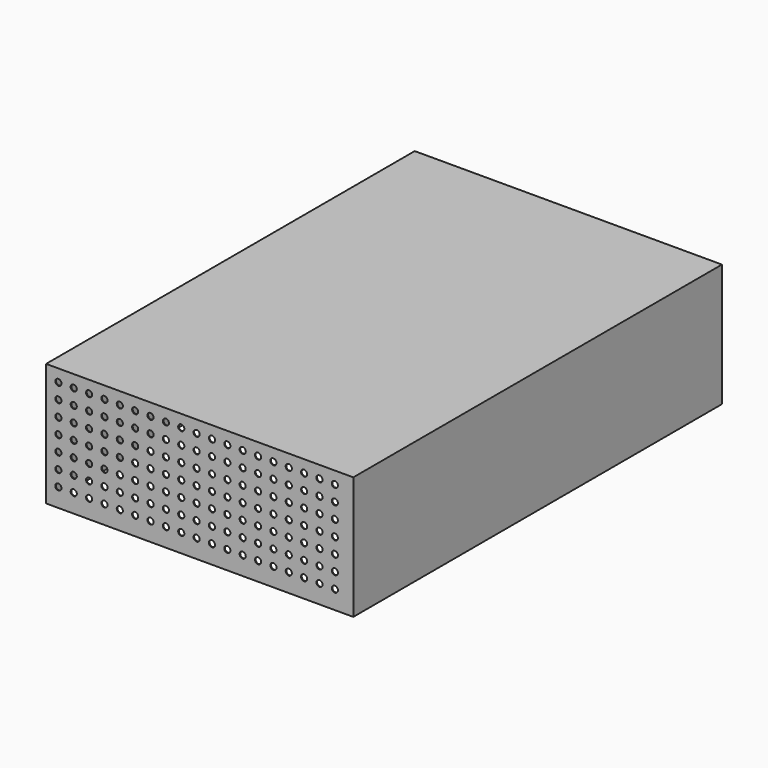
from build123d import *

# Parameters (mm, degrees)
F0_W     = 1000
F0_H     = 1500
F1_DEPTH = 400
F2_T     = -2.5
F3_R     = 10
F4_DEPTH = 2000


with BuildPart() as f1:
    # F0 (on Top) → F1 (new body)
    with BuildSketch(Plane.XY):
        with Locations((500, -750)):
            Rectangle(F0_W, F0_H)
    extrude(amount=F1_DEPTH)

    # F2
    f2_openings = [f1.faces().sort_by_distance(p)[0] for p in [
        (500, -750, 0),
    ]]
    offset(amount=F2_T, openings=f2_openings)

    # F3 (on face) → F4 (cut)
    with BuildSketch(Plane.XZ.offset(1500)):
        with Locations((40, 360)):
            Circle(F3_R)
        with Locations((40, 310)):
            Circle(F3_R)
        with Locations((40, 260)):
            Circle(F3_R)
        with Locations((40, 210)):
            Circle(F3_R)
        with Locations((40, 160)):
            Circle(F3_R)
        with Locations((40, 110)):
            Circle(F3_R)
        with Locations((40, 60)):
            Circle(F3_R)
        with Locations((90, 360)):
            Circle(F3_R)
        with Locations((90, 310)):
            Circle(F3_R)
        with Locations((90, 260)):
            Circle(F3_R)
        with Locations((90, 210)):
            Circle(F3_R)
        with Locations((90, 160)):
            Circle(F3_R)
        with Locations((90, 110)):
            Circle(F3_R)
        with Locations((90, 60)):
            Circle(F3_R)
        with Locations((140, 360)):
            Circle(F3_R)
        with Locations((140, 310)):
            Circle(F3_R)
        with Locations((140, 260)):
            Circle(F3_R)
        with Locations((140, 210)):
            Circle(F3_R)
        with Locations((140, 160)):
            Circle(F3_R)
        with Locations((140, 110)):
            Circle(F3_R)
        with Locations((140, 60)):
            Circle(F3_R)
        with Locations((190, 360)):
            Circle(F3_R)
        with Locations((190, 310)):
            Circle(F3_R)
        with Locations((190, 260)):
            Circle(F3_R)
        with Locations((190, 210)):
            Circle(F3_R)
        with Locations((190, 160)):
            Circle(F3_R)
        with Locations((190, 110)):
            Circle(F3_R)
        with Locations((190, 60)):
            Circle(F3_R)
        with Locations((240, 360)):
            Circle(F3_R)
        with Locations((240, 310)):
            Circle(F3_R)
        with Locations((240, 260)):
            Circle(F3_R)
        with Locations((240, 210)):
            Circle(F3_R)
        with Locations((240, 160)):
            Circle(F3_R)
        with Locations((240, 110)):
            Circle(F3_R)
        with Locations((240, 60)):
            Circle(F3_R)
        with Locations((290, 360)):
            Circle(F3_R)
        with Locations((290, 310)):
            Circle(F3_R)
        with Locations((290, 260)):
            Circle(F3_R)
        with Locations((290, 210)):
            Circle(F3_R)
        with Locations((290, 160)):
            Circle(F3_R)
        with Locations((290, 110)):
            Circle(F3_R)
        with Locations((290, 60)):
            Circle(F3_R)
        with Locations((340, 360)):
            Circle(F3_R)
        with Locations((340, 310)):
            Circle(F3_R)
        with Locations((340, 260)):
            Circle(F3_R)
        with Locations((340, 210)):
            Circle(F3_R)
        with Locations((340, 160)):
            Circle(F3_R)
        with Locations((340, 110)):
            Circle(F3_R)
        with Locations((340, 60)):
            Circle(F3_R)
        with Locations((390, 360)):
            Circle(F3_R)
        with Locations((390, 310)):
            Circle(F3_R)
        with Locations((390, 260)):
            Circle(F3_R)
        with Locations((390, 210)):
            Circle(F3_R)
        with Locations((390, 160)):
            Circle(F3_R)
        with Locations((390, 110)):
            Circle(F3_R)
        with Locations((390, 60)):
            Circle(F3_R)
        with Locations((440, 360)):
            Circle(F3_R)
        with Locations((440, 310)):
            Circle(F3_R)
        with Locations((440, 260)):
            Circle(F3_R)
        with Locations((440, 210)):
            Circle(F3_R)
        with Locations((440, 160)):
            Circle(F3_R)
        with Locations((440, 110)):
            Circle(F3_R)
        with Locations((440, 60)):
            Circle(F3_R)
        with Locations((490, 360)):
            Circle(F3_R)
        with Locations((490, 310)):
            Circle(F3_R)
        with Locations((490, 260)):
            Circle(F3_R)
        with Locations((490, 210)):
            Circle(F3_R)
        with Locations((490, 160)):
            Circle(F3_R)
        with Locations((490, 110)):
            Circle(F3_R)
        with Locations((490, 60)):
            Circle(F3_R)
        with Locations((540, 360)):
            Circle(F3_R)
        with Locations((540, 310)):
            Circle(F3_R)
        with Locations((540, 260)):
            Circle(F3_R)
        with Locations((540, 210)):
            Circle(F3_R)
        with Locations((540, 160)):
            Circle(F3_R)
        with Locations((540, 110)):
            Circle(F3_R)
        with Locations((540, 60)):
            Circle(F3_R)
        with Locations((590, 360)):
            Circle(F3_R)
        with Locations((590, 310)):
            Circle(F3_R)
        with Locations((590, 260)):
            Circle(F3_R)
        with Locations((590, 210)):
            Circle(F3_R)
        with Locations((590, 160)):
            Circle(F3_R)
        with Locations((590, 110)):
            Circle(F3_R)
        with Locations((590, 60)):
            Circle(F3_R)
        with Locations((640, 360)):
            Circle(F3_R)
        with Locations((640, 310)):
            Circle(F3_R)
        with Locations((640, 260)):
            Circle(F3_R)
        with Locations((640, 210)):
            Circle(F3_R)
        with Locations((640, 160)):
            Circle(F3_R)
        with Locations((640, 110)):
            Circle(F3_R)
        with Locations((640, 60)):
            Circle(F3_R)
        with Locations((690, 360)):
            Circle(F3_R)
        with Locations((690, 310)):
            Circle(F3_R)
        with Locations((690, 260)):
            Circle(F3_R)
        with Locations((690, 210)):
            Circle(F3_R)
        with Locations((690, 160)):
            Circle(F3_R)
        with Locations((690, 110)):
            Circle(F3_R)
        with Locations((690, 60)):
            Circle(F3_R)
        with Locations((740, 360)):
            Circle(F3_R)
        with Locations((740, 310)):
            Circle(F3_R)
        with Locations((740, 260)):
            Circle(F3_R)
        with Locations((740, 210)):
            Circle(F3_R)
        with Locations((740, 160)):
            Circle(F3_R)
        with Locations((740, 110)):
            Circle(F3_R)
        with Locations((740, 60)):
            Circle(F3_R)
        with Locations((790, 360)):
            Circle(F3_R)
        with Locations((790, 310)):
            Circle(F3_R)
        with Locations((790, 260)):
            Circle(F3_R)
        with Locations((790, 210)):
            Circle(F3_R)
        with Locations((790, 160)):
            Circle(F3_R)
        with Locations((790, 110)):
            Circle(F3_R)
        with Locations((790, 60)):
            Circle(F3_R)
        with Locations((840, 360)):
            Circle(F3_R)
        with Locations((840, 310)):
            Circle(F3_R)
        with Locations((840, 260)):
            Circle(F3_R)
        with Locations((840, 210)):
            Circle(F3_R)
        with Locations((840, 160)):
            Circle(F3_R)
        with Locations((840, 110)):
            Circle(F3_R)
        with Locations((840, 60)):
            Circle(F3_R)
        with Locations((890, 360)):
            Circle(F3_R)
        with Locations((890, 310)):
            Circle(F3_R)
        with Locations((890, 260)):
            Circle(F3_R)
        with Locations((890, 210)):
            Circle(F3_R)
        with Locations((890, 160)):
            Circle(F3_R)
        with Locations((890, 110)):
            Circle(F3_R)
        with Locations((890, 60)):
            Circle(F3_R)
        with Locations((940, 360)):
            Circle(F3_R)
        with Locations((940, 310)):
            Circle(F3_R)
        with Locations((940, 260)):
            Circle(F3_R)
        with Locations((940, 210)):
            Circle(F3_R)
        with Locations((940, 160)):
            Circle(F3_R)
        with Locations((940, 110)):
            Circle(F3_R)
        with Locations((940, 60)):
            Circle(F3_R)
    extrude(amount=-F4_DEPTH, mode=Mode.SUBTRACT)


solid = f1.part
